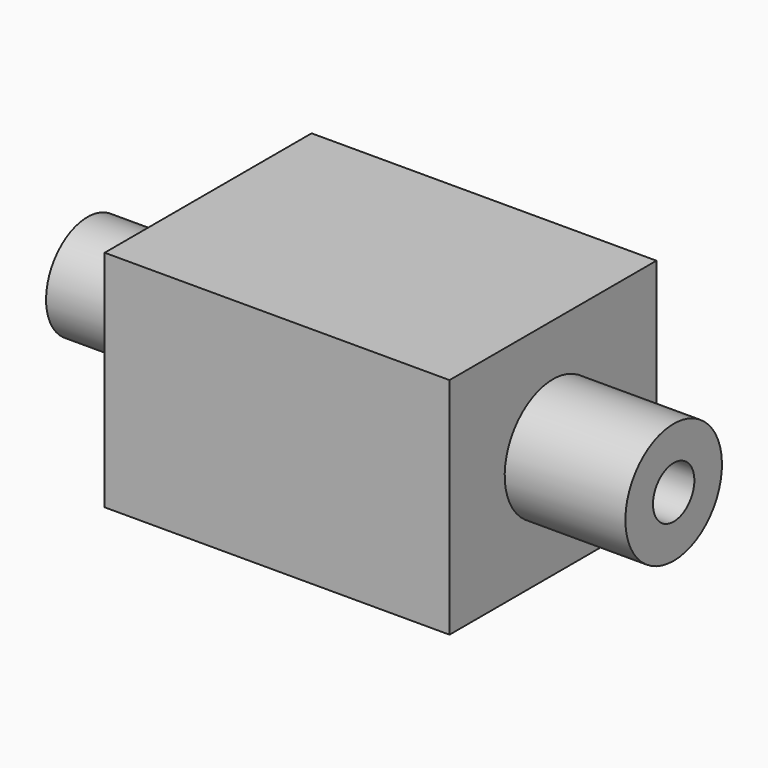
from build123d import *

# Parameters (mm, degrees)
BOX_W         = 20
BOX_H         = 15
BOX_DEPTH     = 13
TUBE_R        = 3
TUBE_R_2      = 1
TUBE_DEPTH    = 7
TUBE001_R     = 3.5
TUBE001_R_2   = 1.5
TUBE001_DEPTH = 7


with BuildPart() as cube:
    # Box → Box (new body)
    with BuildSketch(Plane.XY):
        with Locations((10, 7.5)):
            Rectangle(BOX_W, BOX_H)
    extrude(amount=BOX_DEPTH)


with BuildPart() as tube:
    # Tube → Tube (new body)
    with BuildSketch(Plane(origin=(-7, 7.5, 6.5), x_dir=(0, 0, -1), z_dir=(1, 0, 0))):
        Circle(TUBE_R)
        Circle(TUBE_R_2, mode=Mode.SUBTRACT)
    extrude(amount=TUBE_DEPTH)


with BuildPart() as tube001:
    # Tube001 → Tube001 (new body)
    with BuildSketch(Plane(origin=(20, 7.5, 6.5), x_dir=(0, 0, -1), z_dir=(1, 0, 0))):
        Circle(TUBE001_R)
        Circle(TUBE001_R_2, mode=Mode.SUBTRACT)
    extrude(amount=TUBE001_DEPTH)


solid = Compound([cube.part, tube.part, tube001.part])
